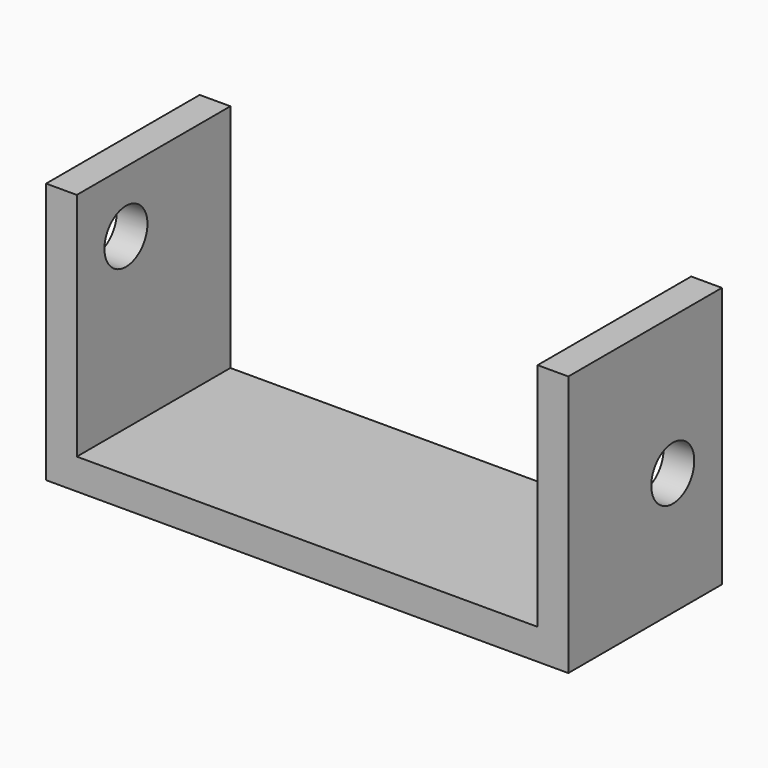
from build123d import *

# Parameters (mm, degrees)
F0_W     = 10.16
F0_H     = 76.2
F1_DEPTH = 31.75
F3_D     = 17.78
F3_DEPTH = 12.7
F5_D     = 17.78
F5_DEPTH = 12.7


with BuildPart() as f1:
    # F0 (on Front) → F1 (new body, symmetric)
    with BuildSketch(Plane.XZ):
        with Locations((-81.28, 43.18)):
            Rectangle(F0_W, F0_H)
        with Locations((81.28, 43.18)):
            Rectangle(F0_W, F0_H)
        Polygon((-76.2, 5.08), (-86.36, 5.08), (-86.36, -5.08), (86.36, -5.08), (86.36, 5.08), (76.2, 5.08), align=None)
    extrude(amount=F1_DEPTH, both=True)

    # F3
    with Locations(Plane.YZ.offset(86.36)):
        with Locations((11.43, 35.56)):
            Hole(F3_D / 2, depth=F3_DEPTH)

    # F5
    with Locations(Plane(origin=(-86.36, 0, 0), x_dir=(0, -1, 0), z_dir=(-1, 0, 0))):
        with Locations((11.43, 60.96)):
            Hole(F5_D / 2, depth=F5_DEPTH)


solid = f1.part
